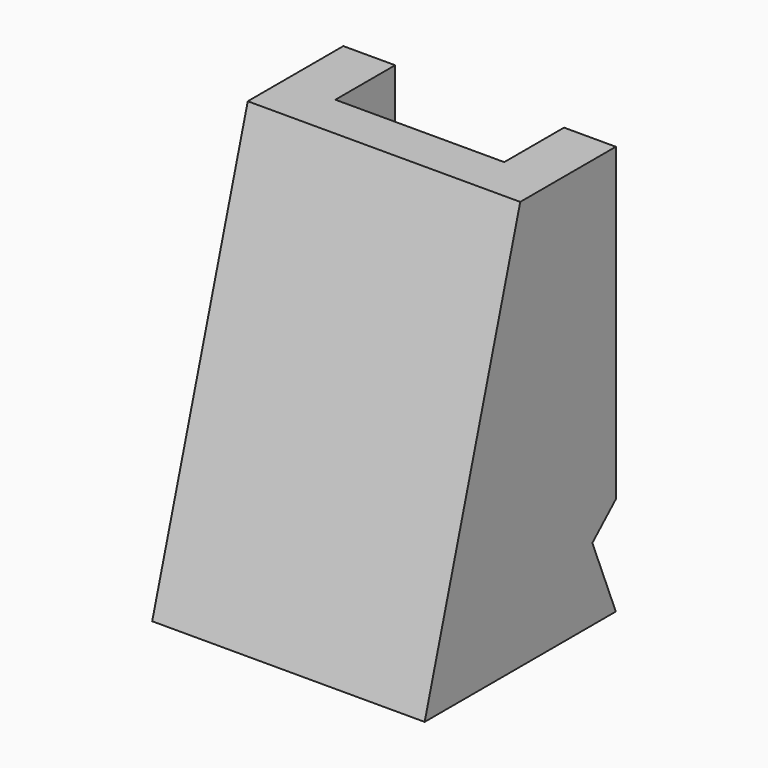
from build123d import *

# Parameters (mm, degrees)
F0_W     = 31.773508
F0_H     = 27.862936
F1_DEPTH = 47.720866
F3_DEPTH = 35.224047
F4_W     = 19.695132
F4_H     = 37.246185
F5_DEPTH = 8.711955


with BuildPart() as f1:
    # F0 (on Top) → F1 (new body)
    with BuildSketch(Plane.XY):
        Rectangle(F0_W, F0_H)
    extrude(amount=F1_DEPTH)

    # F2 (on face) → F3 (cut)
    with BuildSketch(Plane(origin=(-15.886754, 0, 0), x_dir=(0, -1, 0), z_dir=(-1, 0, 0))):
        Polygon((13.931468, 47.720866), (0, 47.720866), (13.931468, 0), align=None)
        Polygon((-13.931468, 11.532108), (-13.931468, 0), (-10.5097, 8.432195), align=None)
    extrude(amount=-F3_DEPTH, mode=Mode.SUBTRACT)

    # F4 (on face) → F5 (cut)
    with BuildSketch(Plane(origin=(0, 13.931468, 0), x_dir=(-1, 0, 0), z_dir=(0, 1, 0))):
        with Locations((0, 30.1552)):
            Rectangle(F4_W, F4_H)
    extrude(amount=-F5_DEPTH, mode=Mode.SUBTRACT)


solid = f1.part
